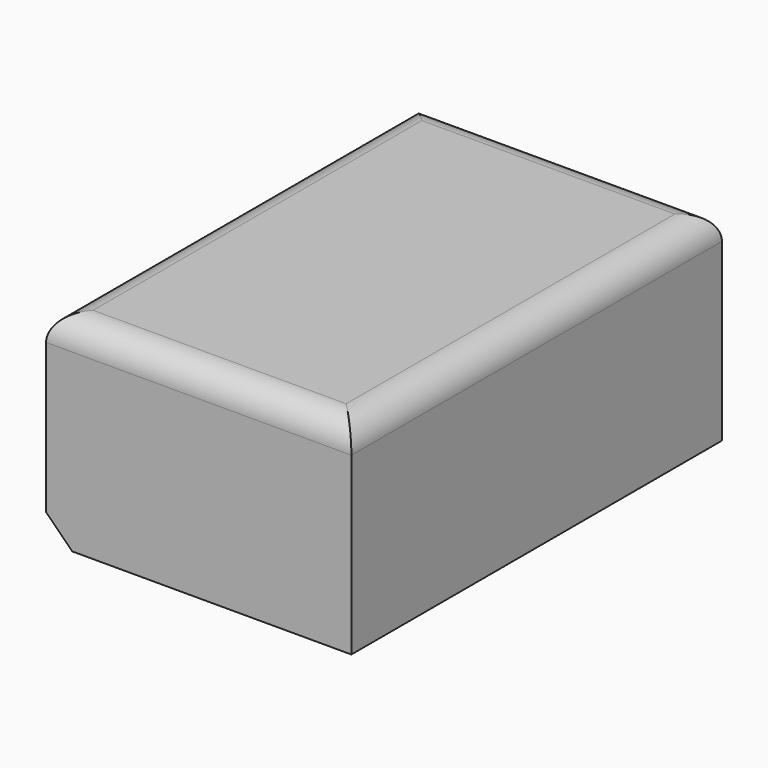
from build123d import *

# Parameters (mm, degrees)
F0_W     = 59.375703
F0_H     = 39.209425
F1_DEPTH = 90.080572
F3_R     = 5.08
F2_SIZE  = 5.08


with BuildPart() as f1:
    # F0 (on Front) → F1 (new body)
    with BuildSketch(Plane.XZ):
        with Locations((29.687851, -19.604712)):
            Rectangle(F0_W, F0_H)
    extrude(amount=F1_DEPTH)

    # F3
    f3_edges = [f1.edges().sort_by_distance(p)[0] for p in [
        (59.375703, -45.040286, 0),
        (0, -45.040286, 0),
        (29.687852, 0, 0),
        (29.687852, -90.080572, 0),
    ]]
    fillet(f3_edges, radius=F3_R)

    # F2
    f2_edges = [f1.edges().sort_by_distance(p)[0] for p in [
        (0, -45.040286, -39.209425),
    ]]
    chamfer(f2_edges, length=F2_SIZE)


solid = f1.part
